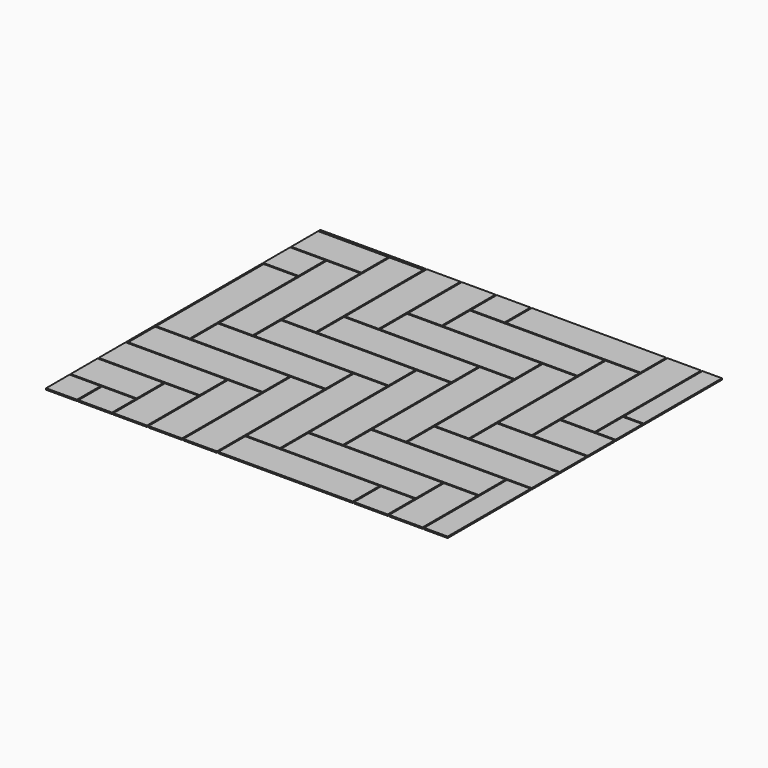
from build123d import *

# Parameters (mm, degrees)
F1_W     = 609.6
F1_H     = 152.4
F1_W_2   = 152.4
F1_H_2   = 609.6
F2_DEPTH = 6.35
F3_W     = 4289.612889
F3_H     = 4005.097747
F3_W_2   = 1822.45
F3_H_2   = 1555.75
F4_DEPTH = 6.351


with BuildPart() as f2:
    # F1 (on Top) → F2 (new body)
    with BuildSketch(Plane.XY):
        with Locations((1086.728778, 76.2)):
            Rectangle(F1_W, F1_H)
        with Locations((858.128778, 463.55)):
            Rectangle(F1_W_2, F1_H_2)
        with Locations((1245.478778, 234.95)):
            Rectangle(F1_W, F1_H)
        with Locations((1016.878778, 622.3)):
            Rectangle(F1_W_2, F1_H_2)
        with Locations((699.378778, 304.8)):
            Rectangle(F1_W_2, F1_H_2)
        with Locations((312.028778, 533.4)):
            Rectangle(F1_W, F1_H)
        with Locations((540.628778, 146.05)):
            Rectangle(F1_W_2, F1_H_2)
        with Locations((153.278778, 374.65)):
            Rectangle(F1_W, F1_H)
        with Locations((381.878778, -12.7)):
            Rectangle(F1_W_2, F1_H_2)
        with Locations((-5.471222, 215.9)):
            Rectangle(F1_W, F1_H)
        with Locations((223.128778, -171.45)):
            Rectangle(F1_W_2, F1_H_2)
        with Locations((64.378778, -330.2)):
            Rectangle(F1_W_2, F1_H_2)
        with Locations((-164.221222, 57.15)):
            Rectangle(F1_W, F1_H)
        with Locations((470.778778, 692.15)):
            Rectangle(F1_W, F1_H)
        with Locations((629.528778, 850.9)):
            Rectangle(F1_W, F1_H)
        with Locations((788.278778, 1009.65)):
            Rectangle(F1_W, F1_H)
        with Locations((1404.228778, 393.7)):
            Rectangle(F1_W, F1_H)
        with Locations((1175.628778, 781.05)):
            Rectangle(F1_W_2, F1_H_2)
        with Locations((1562.978778, 552.45)):
            Rectangle(F1_W, F1_H)
        with Locations((1334.378778, 939.8)):
            Rectangle(F1_W_2, F1_H_2)
        with Locations((1721.728778, 711.2)):
            Rectangle(F1_W, F1_H)
        with Locations((947.028778, 1168.4)):
            Rectangle(F1_W, F1_H)
        with Locations((1493.128778, 1098.55)):
            Rectangle(F1_W_2, F1_H_2)
        with Locations((1880.478778, 869.95)):
            Rectangle(F1_W, F1_H)
        with Locations((1105.778778, 1327.15)):
            Rectangle(F1_W, F1_H)
        with Locations((718.428778, 1555.75)):
            Rectangle(F1_W_2, F1_H_2)
        with Locations((559.678778, 1397)):
            Rectangle(F1_W_2, F1_H_2)
        with Locations((400.928778, 1238.25)):
            Rectangle(F1_W_2, F1_H_2)
        with Locations((242.178778, 1079.5)):
            Rectangle(F1_W_2, F1_H_2)
        with Locations((83.428778, 920.75)):
            Rectangle(F1_W_2, F1_H_2)
        with Locations((-75.321222, 762)):
            Rectangle(F1_W_2, F1_H_2)
        with Locations((1474.078778, -152.4)):
            Rectangle(F1_W_2, F1_H_2)
        with Locations((1632.828778, 6.35)):
            Rectangle(F1_W_2, F1_H_2)
        with Locations((1791.578778, 165.1)):
            Rectangle(F1_W_2, F1_H_2)
        with Locations((-234.071222, 603.25)):
            Rectangle(F1_W_2, F1_H_2)
        with Locations((877.178778, 1714.5)):
            Rectangle(F1_W_2, F1_H_2)
        with Locations((1264.528778, 1485.9)):
            Rectangle(F1_W, F1_H)
        with Locations((-392.821222, 444.5)):
            Rectangle(F1_W_2, F1_H_2)
        with Locations((-621.421222, 831.85)):
            Rectangle(F1_W, F1_H)
        with Locations((-462.671222, 990.6)):
            Rectangle(F1_W, F1_H)
        with Locations((-303.921222, 1149.35)):
            Rectangle(F1_W, F1_H)
        with Locations((-145.171222, 1308.1)):
            Rectangle(F1_W, F1_H)
        with Locations((13.578778, 1466.85)):
            Rectangle(F1_W, F1_H)
        with Locations((172.328778, 1625.6)):
            Rectangle(F1_W, F1_H)
        with Locations((-215.021222, 1854.2)):
            Rectangle(F1_W_2, F1_H_2)
        with Locations((-373.771222, 1695.45)):
            Rectangle(F1_W_2, F1_H_2)
        with Locations((1651.878778, 1257.3)):
            Rectangle(F1_W_2, F1_H_2)
        with Locations((2039.228778, 1028.7)):
            Rectangle(F1_W, F1_H)
        with Locations((1810.628778, 1416.05)):
            Rectangle(F1_W_2, F1_H_2)
    extrude(amount=F2_DEPTH)

    # F3 (on Top) → F4 (cut, through all)
    with BuildSketch(Plane.XY):
        with Locations((857.388675, 780.000746)):
            Rectangle(F3_W, F3_H)
        with Locations((911.225, 777.875)):
            Rectangle(F3_W_2, F3_H_2, mode=Mode.SUBTRACT)
    extrude(amount=F4_DEPTH, mode=Mode.SUBTRACT)


solid = f2.part
